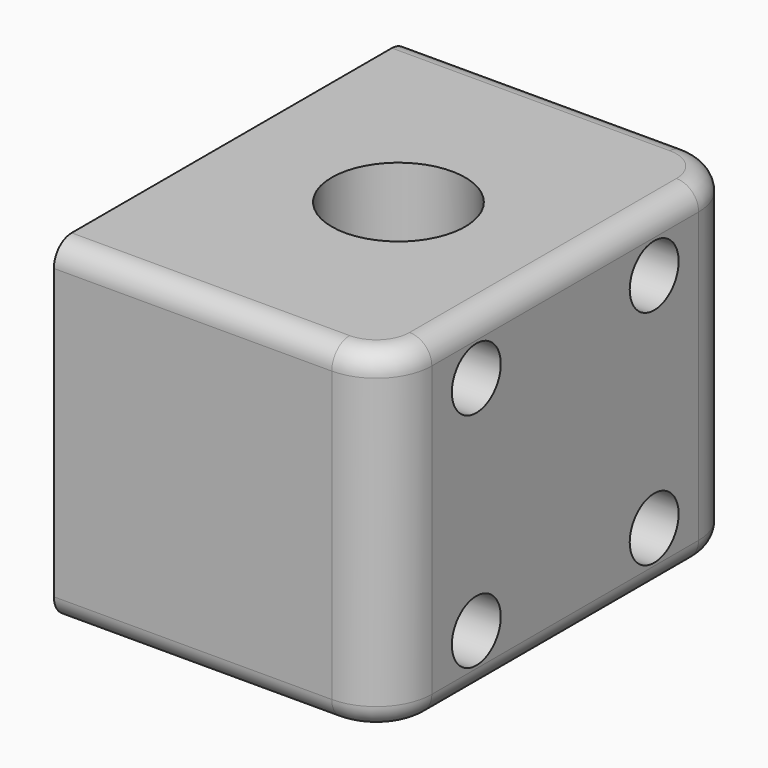
from build123d import *

# Parameters (mm, degrees)
F0_W     = 30
F0_H     = 30
F1_DEPTH = 40
F3_D     = 12
F5_D     = 5.5
F6_R     = 5
F7_R     = 2


with BuildPart() as f1:
    # F0 (on Front) → F1 (new body)
    with BuildSketch(Plane.XZ):
        with Locations((15, 15)):
            Rectangle(F0_W, F0_H)
    extrude(amount=F1_DEPTH)

    # F3 (through all)
    with Locations(Plane.XY.offset(30)):
        with Locations((15, -20)):
            Hole(F3_D / 2)

    # F5 (through all)
    with Locations(Plane.YZ.offset(30)):
        with Locations((-30, 25), (-10, 25), (-10, 5), (-30, 5)):
            Hole(F5_D / 2)

    # F6
    f6_edges = [f1.edges().sort_by_distance(p)[0] for p in [
        (30, 0, 15),
        (30, -40, 15),
    ]]
    fillet(f6_edges, radius=F6_R)

    # F7
    f7_edges = [f1.edges().sort_by_distance(p)[0] for p in [
        (30, -20, 30),
        (30, -20, 0),
    ]]
    fillet(f7_edges, radius=F7_R)


solid = f1.part
